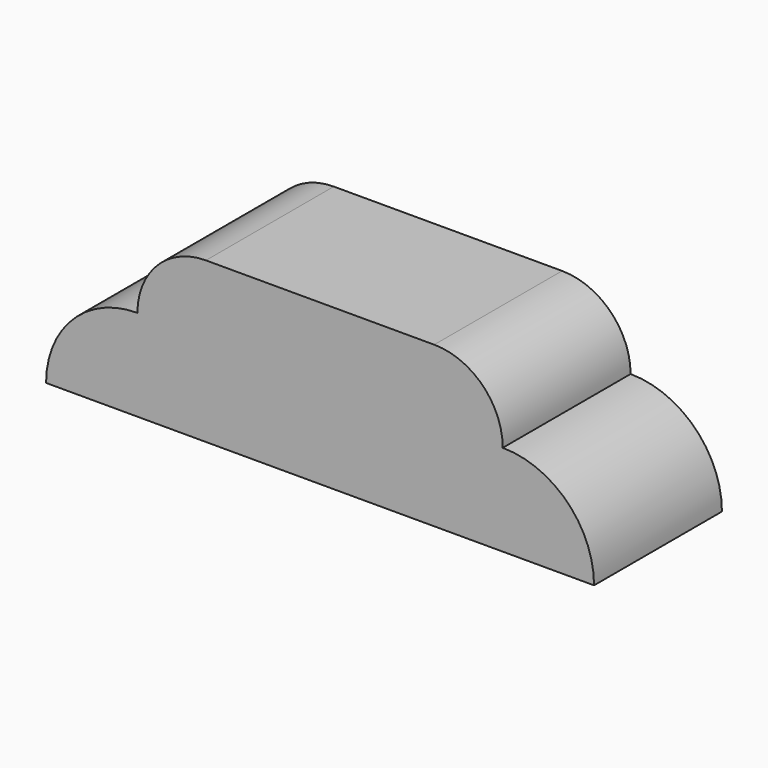
from build123d import *

# Parameters (mm, degrees)
F1_DEPTH = 88.9


with BuildPart() as f1:
    # F0 (on Front) → F1 (new body)
    with BuildSketch(Plane.XZ):
        with BuildLine():
            Line((-152.4, -44.465989), (152.4, -44.465989))
            Line((152.4, -44.465989), (152.4, -44.434011))
            ThreePointArc((152.4, -44.434011), (137.521024, -8.512987), (101.6, 6.365989))
            ThreePointArc((101.6, 6.365989), (90.440768, 33.306757), (63.5, 44.465989))
            Line((63.5, 44.465989), (-63.5, 44.465989))
            ThreePointArc((-63.5, 44.465989), (-90.440768, 33.306757), (-101.6, 6.365989))
            ThreePointArc((-101.6, 6.365989), (-137.521024, -8.512987), (-152.4, -44.434011))
            Line((-152.4, -44.434011), (-152.4, -44.465989))
        make_face()
    extrude(amount=F1_DEPTH)


solid = f1.part
